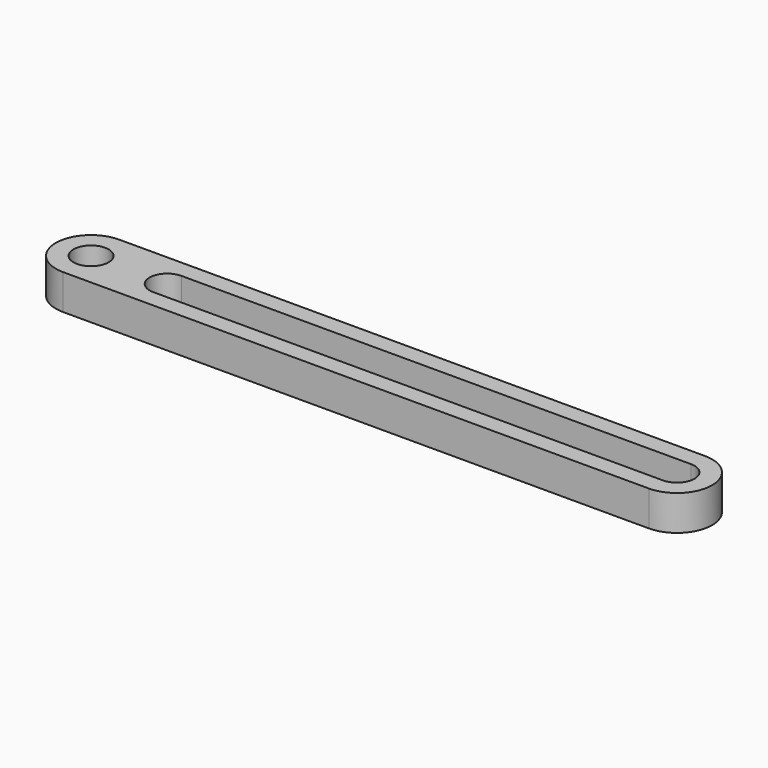
from build123d import *

# Parameters (mm, degrees)
F1_DEPTH = 3


with BuildPart() as f1:
    # F0 (on Top) → F1 (new body)
    with BuildSketch(Plane.XY):
        with BuildLine():
            Line((25, 3.365576), (0, 3.365576))
            Line((0, 3.365576), (-25, 3.365576))
            ThreePointArc((-25, 3.365576), (-22.87868, 2.486897), (-22, 0.365576))
            ThreePointArc((-22, 0.365576), (-22.87868, -1.755744), (-25, -2.634424))
            Line((-25, -2.634424), (0, -2.634424))
            Line((0, -2.634424), (25, -2.634424))
            ThreePointArc((25, -2.634424), (28, 0.365576), (25, 3.365576))
        make_face()
        with BuildLine():
            ThreePointArc((-18.5, -1.134424), (-20, 0.365576), (-18.5, 1.865576))
            Line((-18.5, 1.865576), (25, 1.865576))
            ThreePointArc((25, 1.865576), (26.06066, 1.426237), (26.5, 0.365576))
            ThreePointArc((26.5, 0.365576), (26.06066, -0.695084), (25, -1.134424))
            Line((25, -1.134424), (-18.5, -1.134424))
        make_face(mode=Mode.SUBTRACT)
        with BuildLine():
            ThreePointArc((-22, 0.365576), (-22.87868, 2.486897), (-25, 3.365576))
            ThreePointArc((-25, 3.365576), (-28, 0.365576), (-25, -2.634424))
            ThreePointArc((-25, -2.634424), (-22.87868, -1.755744), (-22, 0.365576))
        make_face()
        with BuildLine():
            ThreePointArc((-23.5, 0.365576), (-23.93934, -0.695084), (-25, -1.134424))
            ThreePointArc((-25, -1.134424), (-26.06066, 1.426237), (-23.5, 0.365576))
        make_face(mode=Mode.SUBTRACT)
    extrude(amount=F1_DEPTH)


solid = f1.part
